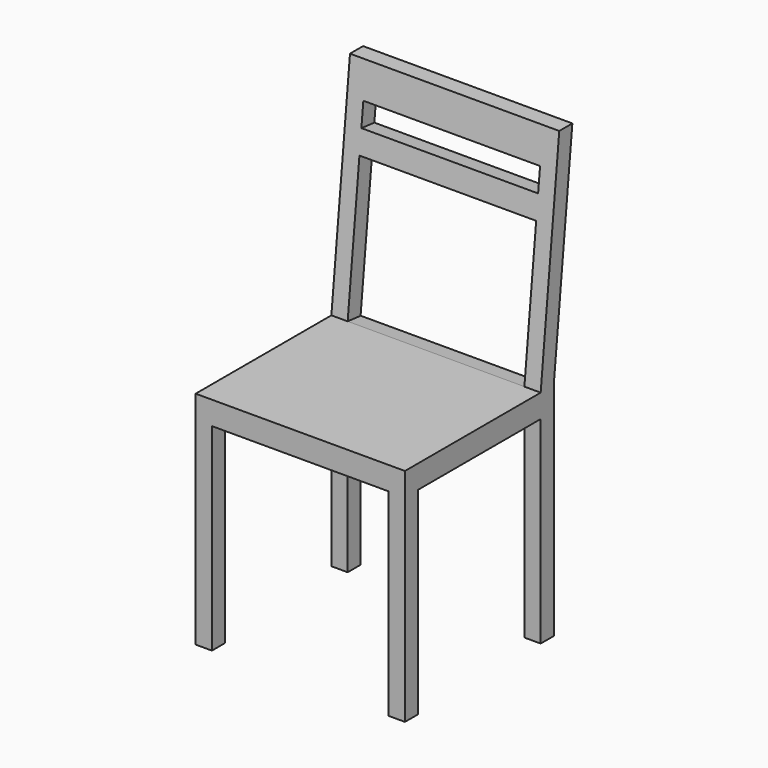
from build123d import *

# Parameters (mm, degrees)
F0_W     = 450
F0_H     = 450
F1_DEPTH = 950
F2_W     = 50
F2_H     = 50
F2_W_2   = 329.8066283627
F2_H_2   = 425
F3_DEPTH = 450.001
F4_W     = 380
F4_H     = 425
F5_DEPTH = 450.001
F6_W     = 380
F6_H     = 302.6243293636
F6_H_2   = 50
F7_DEPTH = 134.4515452921


with BuildPart() as f1:
    # F0 (on Top) → F1 (new body)
    with BuildSketch(Plane.XY):
        Rectangle(F0_W, F0_H)
    extrude(amount=F1_DEPTH)

    # F2 (on face) → F3 (cut, through all)
    with BuildSketch(Plane.YZ.offset(225)):
        with Locations((200, 450)):
            Rectangle(F2_W, F2_H)
        Polygon((-225, 950), (-225, 475), (139.8066283627, 475), (189.8066283627, 950), align=None)
        Polygon((225, 950), (175, 475), (225, 475), align=None)
        with Locations((-25.0966858187, 212.5)):
            Rectangle(F2_W_2, F2_H_2)
        with Locations((200, 212.5)):
            Rectangle(F2_W, F2_H_2)
    extrude(amount=-F3_DEPTH, mode=Mode.SUBTRACT)

    # F4 (on face) → F5 (cut, through all)
    with BuildSketch(Plane.XZ.offset(225)):
        with Locations((0, 212.5)):
            Rectangle(F4_W, F4_H)
    extrude(amount=-F5_DEPTH, mode=Mode.SUBTRACT)

    # F6 (on face) → F7 (cut, through all)
    with BuildSketch(Plane(origin=(0, 88.8224461341, -9.349731172), x_dir=(1, 0, 0), z_dir=(0, -0.9945054529, 0.1046847845))):
        with Locations((0, 638.3378815838)):
            Rectangle(F6_W, F6_H)
        with Locations((0, 864.6500462656)):
            Rectangle(F6_W, F6_H_2)
    extrude(amount=-F7_DEPTH, mode=Mode.SUBTRACT)


solid = f1.part
